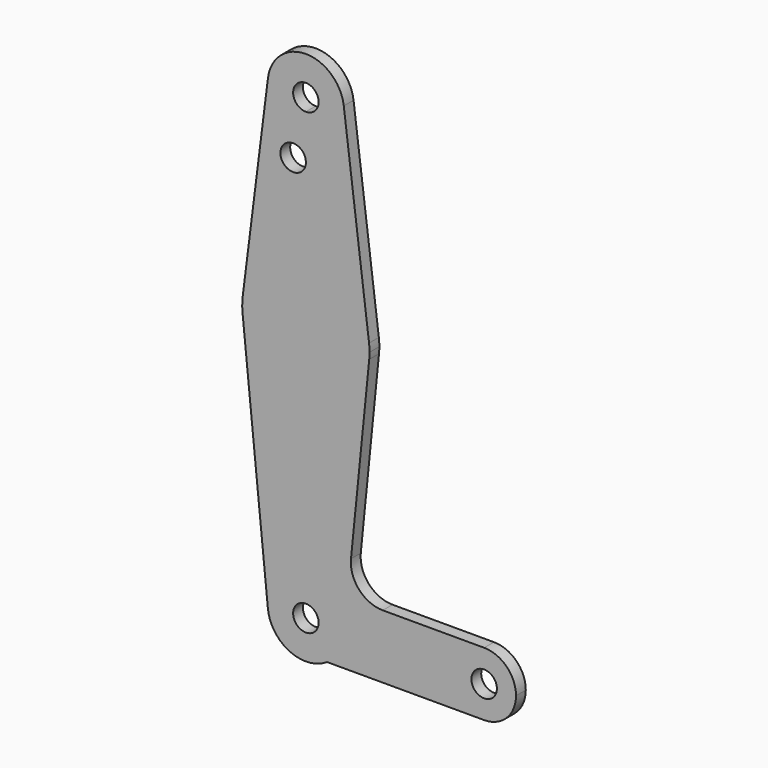
from build123d import *

# Parameters (mm, degrees)
F0_R     = 3.175
F1_DEPTH = 3.048


with BuildPart() as f1:
    # F0 (on Front) → F1 (new body)
    with BuildSketch(Plane.XZ):
        with BuildLine():
            ThreePointArc((3.175, 0), (-2.2450640303, -2.2450640303), (0, 3.175))
            Line((0, 3.175), (0, 9.525))
            ThreePointArc((0, 9.525), (-7.063929059, 6.3895642457), (-9.4772553384, -0.9525))
            ThreePointArc((-9.4772553384, -0.9525), (-4.0783613437, -8.6077054869), (5.2651418547, -7.9375))
            ThreePointArc((5.2651418547, -7.9375), (8.392737967, -4.5041730003), (9.525, 0))
            Line((9.525, 0), (3.175, 0))
        make_face()
        with BuildLine():
            ThreePointArc((-9.4772553384, -0.9525), (-7.063929059, 6.3895642457), (0, 9.525))
            Line((0, 9.525), (0, 47.625))
            ThreePointArc((0, 47.625), (-10.6492737428, 51.7267849017), (-15.7954255641, 61.9125))
            Line((-15.7954255641, 61.9125), (-9.4772553384, -0.9525))
        make_face()
        with BuildLine():
            Line((0, 47.625), (0, 9.525))
            ThreePointArc((0, 9.525), (6.7351920908, 6.7351920908), (9.525, 0))
            Line((9.525, 0), (36.5125, 0))
            ThreePointArc((36.5125, 0), (38.8373399243, 5.6126600757), (44.45, 7.9375))
            Line((44.45, 7.9375), (19.160010759, 7.9375))
            ThreePointArc((19.160010759, 7.9375), (13.2639846378, 10.5545437096), (11.2496616365, 16.68272))
            Line((11.2496616365, 16.68272), (15.7954255641, 61.9125))
            ThreePointArc((15.7954255641, 61.9125), (10.6492737428, 51.7267849017), (0, 47.625))
        make_face()
        with BuildLine():
            Line((36.5125, 0), (9.525, 0))
            ThreePointArc((9.525, 0), (8.392737967, -4.5041730003), (5.2651418547, -7.9375))
            Line((5.2651418547, -7.9375), (44.45, -7.9375))
            ThreePointArc((44.45, -7.9375), (38.8373399243, -5.6126600757), (36.5125, 0))
        make_face()
        with BuildLine():
            ThreePointArc((-15.7954255641, 61.9125), (-10.6492737428, 51.7267849017), (0, 47.625))
            Line((0, 47.625), (0, 79.375))
            ThreePointArc((0, 79.375), (-10.5003255158, 75.40625), (-15.7504882737, 65.484375))
            ThreePointArc((-15.7504882737, 65.484375), (-15.8737438155, 63.6997054867), (-15.7954255641, 61.9125))
        make_face()
        with BuildLine():
            Line((0, 79.375), (0, 47.625))
            ThreePointArc((0, 47.625), (10.6492737428, 51.7267849017), (15.7954255641, 61.9125))
            ThreePointArc((15.7954255641, 61.9125), (15.8550939106, 62.7052534459), (15.875, 63.5))
            ThreePointArc((15.875, 63.5), (15.8438414904, 64.4941387366), (15.7504882737, 65.484375))
            ThreePointArc((15.7504882737, 65.484375), (10.5003255158, 75.40625), (0, 79.375))
        make_face()
        with BuildLine():
            ThreePointArc((44.45, 7.9375), (38.8373399243, 5.6126600757), (36.5125, 0))
            ThreePointArc((36.5125, 0), (38.8373399243, -5.6126600757), (44.45, -7.9375))
            ThreePointArc((44.45, -7.9375), (50.0626600757, -5.6126600757), (52.3875, 0))
            ThreePointArc((52.3875, 0), (50.0626600757, 5.6126600757), (44.45, 7.9375))
        make_face()
        with BuildLine():
            ThreePointArc((47.625, 0), (44.45, -3.175), (41.275, 0))
            ThreePointArc((41.275, 0), (44.45, 3.175), (47.625, 0))
        make_face(mode=Mode.SUBTRACT)
        with BuildLine():
            ThreePointArc((-15.7504882737, 65.484375), (-10.5003255158, 75.40625), (0, 79.375))
            Line((0, 79.375), (0, 100.0252))
            Line((0, 100.0252), (0, 104.775))
            ThreePointArc((0, 104.775), (-7.14375, 107.9998046905), (-9.4502929642, 115.490625))
            Line((-9.4502929642, 115.490625), (-15.7504882737, 65.484375))
        make_face()
        with Locations((-3.175, 100.0252)):
            Circle(F0_R, mode=Mode.SUBTRACT)
        with BuildLine():
            Line((0, 100.0252), (0, 79.375))
            ThreePointArc((0, 79.375), (10.5003255158, 75.40625), (15.7504882737, 65.484375))
            Line((15.7504882737, 65.484375), (9.4502929642, 115.490625))
            ThreePointArc((9.4502929642, 115.490625), (9.5063048942, 114.896483242), (9.525, 114.3))
            ThreePointArc((9.525, 114.3), (6.7351920908, 107.5648079092), (0, 104.775))
            Line((0, 104.775), (0, 100.0252))
        make_face()
        with BuildLine():
            ThreePointArc((-9.4502929642, 115.490625), (-7.14375, 107.9998046905), (0, 104.775))
            ThreePointArc((0, 104.775), (6.7351920908, 107.5648079092), (9.525, 114.3))
            ThreePointArc((9.525, 114.3), (9.5063048942, 114.896483242), (9.4502929642, 115.490625))
            ThreePointArc((9.4502929642, 115.490625), (0, 123.825), (-9.4502929642, 115.490625))
        make_face()
        with BuildLine():
            ThreePointArc((3.175, 114.3), (2.2450640303, 112.0549359697), (0, 111.125))
            ThreePointArc((0, 111.125), (-2.2450640303, 116.5450640303), (3.175, 114.3))
        make_face(mode=Mode.SUBTRACT)
        with BuildLine():
            Line((0, 9.525), (0, 3.175))
            ThreePointArc((0, 3.175), (2.2450640303, 2.2450640303), (3.175, 0))
            Line((3.175, 0), (9.525, 0))
            ThreePointArc((9.525, 0), (6.7351920908, 6.7351920908), (0, 9.525))
        make_face()
    extrude(amount=F1_DEPTH)


solid = f1.part
